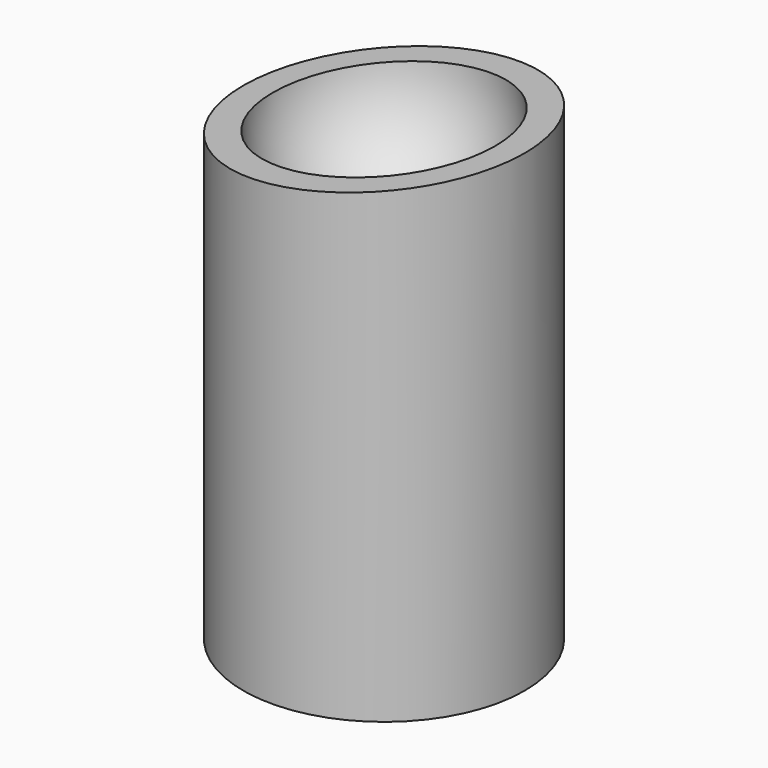
from build123d import *

# Parameters (mm, degrees)
F0_R          = 11
F1_DEPTH      = 37
F3_DEPTH      = 11.001
F3_DEPTH_BACK = 11.001


with BuildPart() as f1:
    # F0 (on Top) → F1 (new body)
    with BuildSketch(Plane.XY):
        Circle(F0_R)
    extrude(amount=F1_DEPTH)

    # F2 (on Front) → F3 (cut, two sides)
    with BuildSketch(Plane.XZ) as f3_sk:
        Polygon((11, 37), (-11, 37), (-11, 34.5), align=None)
    extrude(amount=-F3_DEPTH, mode=Mode.SUBTRACT)
    extrude(f3_sk.sketch, amount=F3_DEPTH_BACK, mode=Mode.SUBTRACT)

    # F4 (on face) → F5 (revolve, cut)
    with BuildSketch(Plane(origin=(-4.010708822, 0, 35.2942376339), x_dir=(0.9936052548, 0, 0.112909688), z_dir=(-0.112909688, 0, 0.9936052548))):
        with BuildLine():
            Line((12.7865213476, 0), (-4.7134786524, 0))
            ThreePointArc((-4.7134786524, 0), (4.0365213476, -8.75), (12.7865213476, 0))
        make_face()
    revolve(axis=Axis((0, 0, 35.75), (0.9936052548, 0, 0.112909688)), mode=Mode.SUBTRACT)


solid = f1.part
